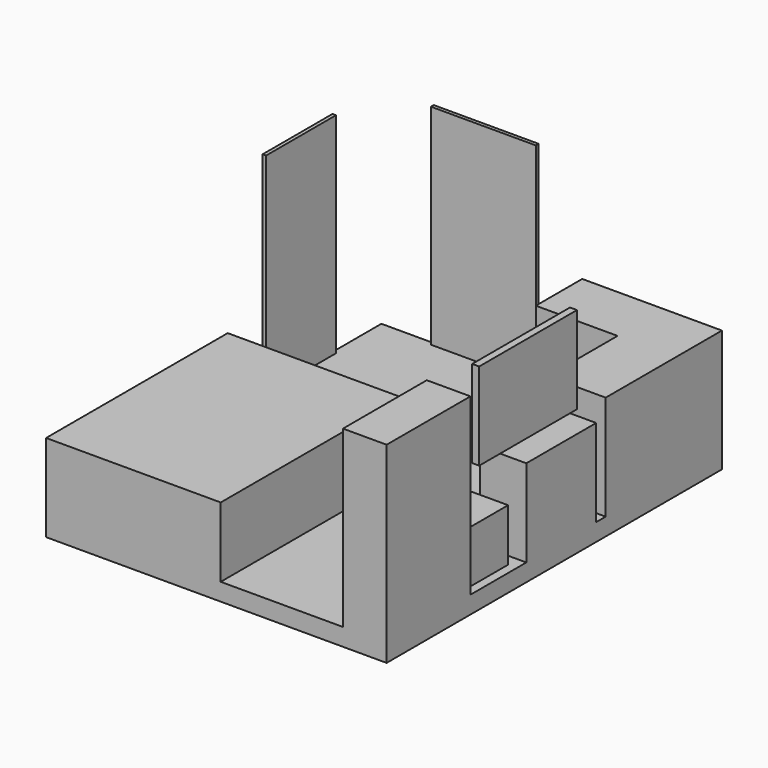
from build123d import *

# Parameters (mm, degrees)
F0_W      = 247.65
F0_H      = 304.8
F1_DEPTH  = 12.7
F2_W      = 2.54
F2_H      = 63.5
F3_DEPTH  = 152.4
F4_W      = 76.2
F4_H      = 2.54
F5_DEPTH  = 152.4
F6_W      = 42.164
F6_H      = 63.5
F7_DEPTH  = 76.2
F8_W      = 33.782
F8_H      = 63.5
F9_DEPTH  = 63.5
F10_W     = 5.08
F10_H     = 88.9
F11_DEPTH = 63.5
F12_W     = 31.75
F12_H     = 76.2
F13_DEPTH = 127
F14_W     = 31.75
F14_H     = 42.164
F15_DEPTH = 38.1
F16_W     = 127
F16_H     = 165.1
F17_DEPTH = 50.8


with BuildPart() as f1:
    # F0 (on Top) → F1 (new body)
    with BuildSketch(Plane.XY):
        with Locations((123.825, -152.4)):
            Rectangle(F0_W, F0_H)
    extrude(amount=F1_DEPTH)

    # F2 (on face) → F3 (join)
    with BuildSketch(Plane.XY.offset(12.7)):
        with Locations((1.27, -76.2)):
            Rectangle(F2_W, F2_H)
    extrude(amount=F3_DEPTH)

    # F4 (on face) → F5 (join)
    with BuildSketch(Plane.XY.offset(12.7)):
        with Locations((76.2, -1.27)):
            Rectangle(F4_W, F4_H)
    extrude(amount=F5_DEPTH)

    # F6 (on face) → F7 (join)
    with BuildSketch(Plane.XY.offset(12.7)):
        Polygon((247.65, -42.164), (247.65, 0), (146.05, 0), (146.05, -42.164), (205.486, -42.164), align=None)
        with Locations((226.568, -73.914)):
            Rectangle(F6_W, F6_H)
    extrude(amount=F7_DEPTH)

    # F8 (on face) → F9 (join)
    with BuildSketch(Plane.XY.offset(12.7)):
        with Locations((230.759, -146.05)):
            Rectangle(F8_W, F8_H)
    extrude(amount=F9_DEPTH)

    # F10 (on face) → F11 (join)
    with BuildSketch(Plane.XY.offset(76.2)):
        with Locations((226.06, -152.4)):
            Rectangle(F10_W, F10_H)
    extrude(amount=F11_DEPTH)

    # F12 (on face) → F13 (join)
    with BuildSketch(Plane.XY.offset(12.7)):
        with Locations((231.775, -266.7)):
            Rectangle(F12_W, F12_H)
    extrude(amount=F13_DEPTH)

    # F14 (on face) → F15 (join)
    with BuildSketch(Plane.XY.offset(12.7)):
        with Locations((225.425, -207.518)):
            Rectangle(F14_W, F14_H)
    extrude(amount=F15_DEPTH)

    # F16 (on face) → F17 (join)
    with BuildSketch(Plane.XY.offset(12.7)):
        with Locations((63.5, -222.25)):
            Rectangle(F16_W, F16_H)
    extrude(amount=F17_DEPTH)


solid = f1.part
